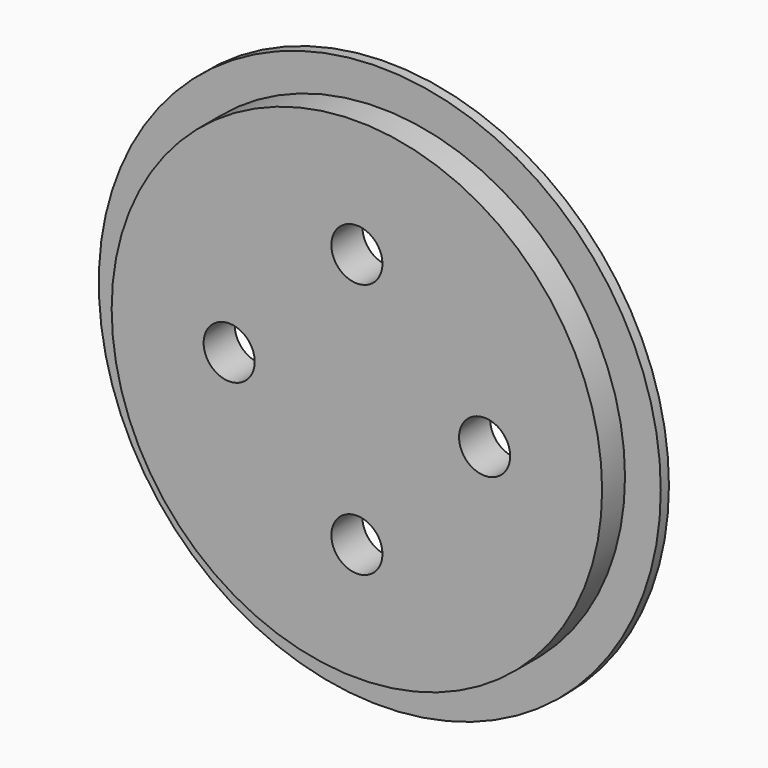
from build123d import *

# Parameters (mm, degrees)
F0_R     = 55
F1_DEPTH = 2
F2_R     = 48
F3_DEPTH = 5.6
F5_D     = 10


with BuildPart() as f1:
    # F0 (on Front) → F1 (new body)
    with BuildSketch(Plane.XZ):
        Circle(F0_R)
    extrude(amount=F1_DEPTH)

    # F2 (on face) → F3 (join)
    with BuildSketch(Plane.XZ.offset(2)):
        Circle(F2_R)
    extrude(amount=F3_DEPTH)

    # F5 (through all)
    with Locations(Plane.XZ.offset(7.6)):
        with Locations((-25, 0), (0, 25), (25, 0), (0, -25)):
            Hole(F5_D / 2)


solid = f1.part
